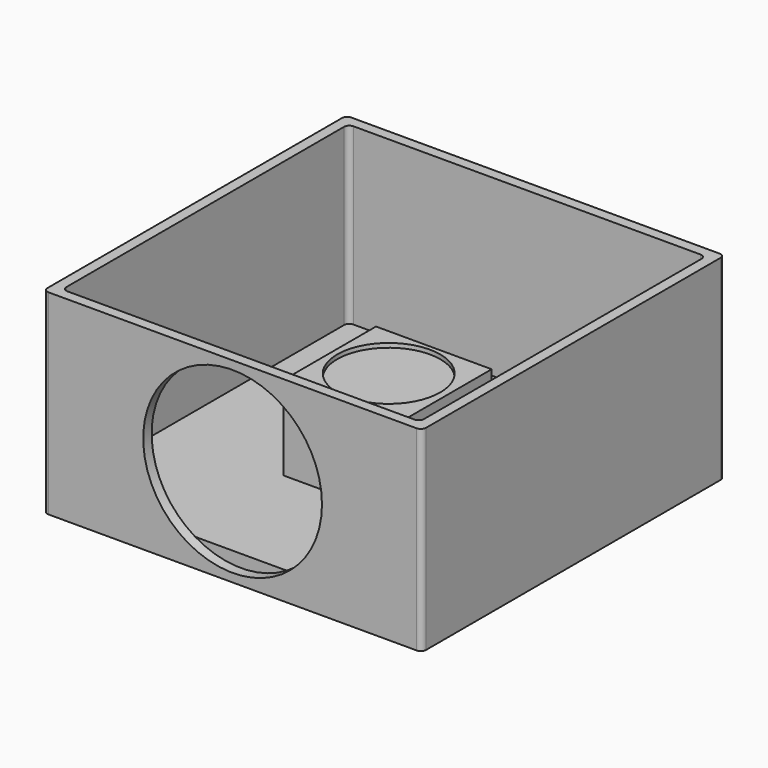
from build123d import *

# Parameters (mm, degrees)
F0_W     = 180
F0_H     = 180
F1_DEPTH = 10
F2_W     = 55
F2_H     = 55
F3_DEPTH = 40
F4_W     = 180
F4_H     = 180
F4_W_2   = 170
F4_H_2   = 170
F5_DEPTH = 83
F6_R     = 24.5
F7_DEPTH = 2
F8_R     = 42.5
F9_DEPTH = 5
F10_R    = 2.5
F11_R    = 2.5


with BuildPart() as f1:
    # F0 (on Top) → F1 (new body)
    with BuildSketch(Plane.XY):
        Rectangle(F0_W, F0_H)
    extrude(amount=F1_DEPTH)

    # F2 (on face) → F3 (join)
    with BuildSketch(Plane.XY.offset(10)):
        with Locations((0.5, 1.5)):
            Rectangle(F2_W, F2_H)
    extrude(amount=F3_DEPTH)

    # F4 (on face) → F5 (join)
    with BuildSketch(Plane.XY.offset(10)):
        Rectangle(F4_W, F4_H)
        Rectangle(F4_W_2, F4_H_2, mode=Mode.SUBTRACT)
    extrude(amount=F5_DEPTH)

    # F6 (on face) → F7 (cut)
    with BuildSketch(Plane.XY.offset(50)):
        with Locations((0.25, 2.5)):
            Circle(F6_R)
    extrude(amount=-F7_DEPTH, mode=Mode.SUBTRACT)

    # F8 (on face) → F9 (cut)
    with BuildSketch(Plane.XZ.offset(90)):
        with Locations((0, 46.5)):
            Circle(F8_R)
    extrude(amount=-F9_DEPTH, mode=Mode.SUBTRACT)

    # F10
    f10_edges = [f1.edges().sort_by_distance(p)[0] for p in [
        (90, 90, 46.5),
        (-90, 90, 46.5),
        (90, -90, 46.5),
        (-90, -90, 46.5),
    ]]
    fillet(f10_edges, radius=F10_R)

    # F11
    f11_edges = [f1.edges().sort_by_distance(p)[0] for p in [
        (-85, 85, 51.5),
        (85, 85, 51.5),
        (-85, -85, 51.5),
        (85, -85, 51.5),
    ]]
    fillet(f11_edges, radius=F11_R)


solid = f1.part
